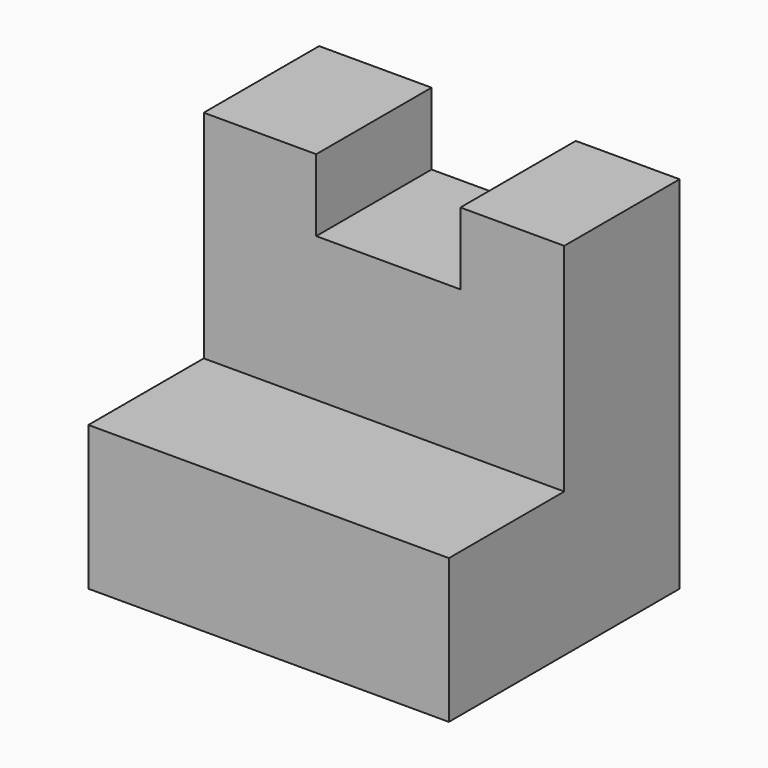
from build123d import *

# Parameters (mm, degrees)
F1_DEPTH = 31.75
F2_W     = 12.7
F2_H     = 12.7
F3_DEPTH = 6.35


with BuildPart() as f1:
    # F0 (on Right) → F1 (new body)
    with BuildSketch(Plane.YZ):
        Polygon((0, 2.995282), (0, 0), (25.4, 0), (25.4, 31.75), (12.7, 31.75), (12.7, 12.7), (0, 12.7), align=None)
    extrude(amount=F1_DEPTH)

    # F2 (on face) → F3 (cut)
    with BuildSketch(Plane.XY.offset(31.75)):
        with Locations((16.254527, 19.05)):
            Rectangle(F2_W, F2_H)
    extrude(amount=-F3_DEPTH, mode=Mode.SUBTRACT)


solid = f1.part
